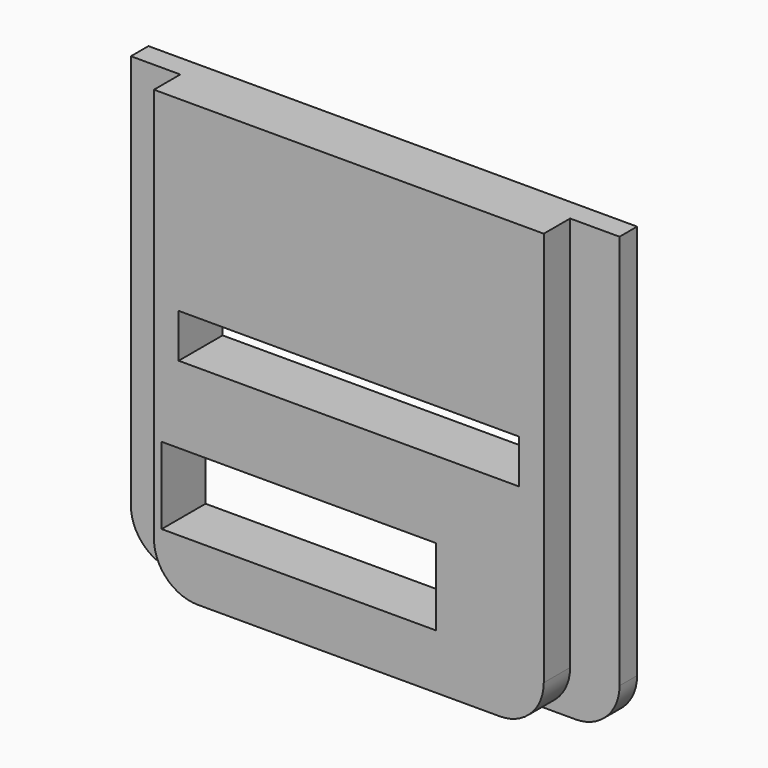
from build123d import *

# Parameters (mm, degrees)
F1_DEPTH = 1
F3_DEPTH = 1.5
F5_W     = 12.5
F5_H     = 3.5
F5_W_2   = 15.5
F5_H_2   = 2
F6_DEPTH = 2.5


with BuildPart() as f1:
    # F0 (on Front) → F1 (new body)
    with BuildSketch(Plane.XZ):
        with BuildLine():
            ThreePointArc((0, 2), (0.585786, 0.585786), (2, 0))
            Line((2, 0), (20.25, 0))
            ThreePointArc((20.25, 0), (21.664214, 0.585786), (22.25, 2))
            Line((22.25, 2), (22.25, 20))
            Line((22.25, 20), (0, 20))
            Line((0, 20), (0, 2))
        make_face()
    extrude(amount=F1_DEPTH)


with BuildPart() as f3:
    # F2 (on face) → F3 (new body)
    with BuildSketch(Plane.XZ.offset(1)):
        with BuildLine():
            Line((20, 20), (2.25, 20))
            Line((2.25, 20), (2.25, 2))
            ThreePointArc((2.25, 2), (2.835786, 0.585786), (4.25, 0))
            Line((4.25, 0), (18, 0))
            ThreePointArc((18, 0), (19.414214, 0.585786), (20, 2))
            Line((20, 2), (20, 20))
        make_face()
    extrude(amount=F3_DEPTH)


with BuildPart() as f1_1:
    add(f1.part)

    # F4: union F3
    add(f3.part)

    # F5 (on face) → F6 (cut, through all)
    with BuildSketch(Plane(origin=(0, 0, 0), x_dir=(-1, 0, 0), z_dir=(0, 1, 0))):
        with Locations((-8.85, 4.25)):
            Rectangle(F5_W, F5_H)
        with Locations((-11.125, 10.5)):
            Rectangle(F5_W_2, F5_H_2)
    extrude(amount=-F6_DEPTH, mode=Mode.SUBTRACT)


solid = f1_1.part
